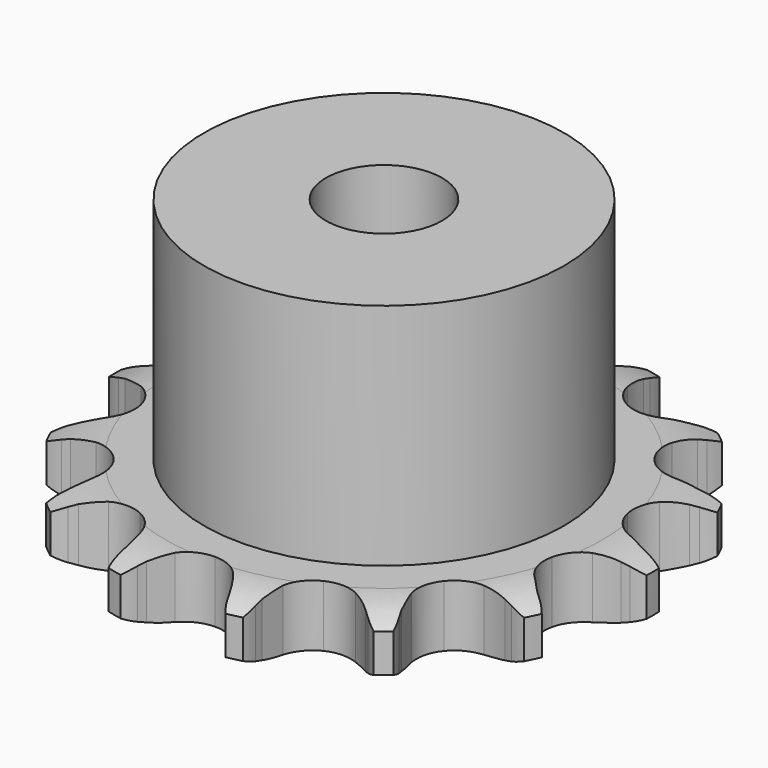
from build123d import *

# Parameters (mm, degrees)
PAD_DEPTH         = 5.3
SKETCH001_R       = 15.5
PAD001_DEPTH      = 25
SKETCH002_R       = 5
POCKET_DEPTH      = 0.001
POCKET_DEPTH_BACK = -25.001


with BuildPart() as part:
    # Sprocket → Pad (new body)
    with BuildSketch(Plane.XY):
        with BuildLine():
            ThreePointArc((-5.383548, 23.586867), (-4.518416, 22.72538), (-3.873288, 21.688836))
            Line((-3.873288, 21.688836), (-3.580974, 21.070043))
            ThreePointArc((-3.580974, 21.070043), (-3.092456, 20.180906), (-2.499221, 19.357933))
            ThreePointArc((-2.499221, 19.357933), (-1.382839, 18.484598), (0, 18.173506))
            ThreePointArc((0, 18.173506), (1.382839, 18.484598), (2.499221, 19.357933))
            ThreePointArc((2.499221, 19.357933), (3.092456, 20.180906), (3.580974, 21.070043))
            Line((3.580974, 21.070043), (3.873288, 21.688836))
            ThreePointArc((3.873288, 21.688836), (4.518416, 22.72538), (5.383548, 23.586867))
            ThreePointArc((5.383548, 23.586867), (5.789221, 22.435327), (5.920722, 21.221523))
            Line((5.920722, 21.221523), (5.915603, 20.537179))
            ThreePointArc((5.915603, 20.537179), (5.969961, 19.524135), (6.147372, 18.525266))
            ThreePointArc((6.147372, 18.525266), (6.774272, 17.254039), (7.885189, 16.373763))
            ThreePointArc((7.885189, 16.373763), (9.266061, 16.054057), (10.650812, 16.356524))
            Line((10.650812, 16.356524), (12.368295, 17.429726))
            ThreePointArc((12.368295, 17.429726), (12.629784, 17.650546), (12.900145, 17.86041))
            ThreePointArc((12.900145, 17.86041), (13.931125, 18.514393), (15.084367, 18.915199))
            ThreePointArc((15.084367, 18.915199), (14.950231, 17.701683), (14.54206, 16.551027))
            Line((14.54206, 16.551027), (14.240522, 15.936675))
            ThreePointArc((14.240522, 15.936675), (13.849953, 15.000369), (13.576403, 14.023443))
            ThreePointArc((13.576403, 14.023443), (13.589655, 12.606105), (14.208619, 11.330995))
            ThreePointArc((14.208619, 11.330995), (15.314027, 10.443812), (16.69288, 10.115504))
            Line((16.69288, 10.115504), (18.705923, 10.337238))
            ThreePointArc((18.705923, 10.337238), (19.037327, 10.422734), (19.371971, 10.49451))
            ThreePointArc((19.371971, 10.49451), (20.584604, 10.636403), (21.797543, 10.497143))
            ThreePointArc((21.797543, 10.497143), (21.150165, 9.462003), (20.283164, 8.602397))
            Line((20.283164, 8.602397), (19.744931, 8.179717))
            ThreePointArc((19.744931, 8.179717), (18.986793, 7.505596), (18.31646, 6.744105))
            ThreePointArc((18.31646, 6.744105), (17.71344, 5.461378), (17.717858, 4.043985))
            ThreePointArc((17.717858, 4.043985), (18.328862, 2.765042), (19.428718, 1.870985))
            Line((19.428718, 1.870985), (21.338614, 1.197334))
            ThreePointArc((21.338614, 1.197334), (21.674294, 1.130573), (22.00694, 1.050044))
            ThreePointArc((22.00694, 1.050044), (23.16105, 0.651743), (24.193447, 0))
            ThreePointArc((24.193447, 0), (23.16105, -0.651743), (22.00694, -1.050044))
            Line((22.00694, -1.050044), (21.338614, -1.197334))
            ThreePointArc((21.338614, -1.197334), (20.363065, -1.475753), (19.428718, -1.870985))
            ThreePointArc((19.428718, -1.870985), (18.328862, -2.765042), (17.717858, -4.043985))
            ThreePointArc((17.717858, -4.043985), (17.71344, -5.461378), (18.31646, -6.744105))
            Line((18.31646, -6.744105), (19.744931, -8.179717))
            ThreePointArc((19.744931, -8.179717), (20.018401, -8.385513), (20.283164, -8.602397))
            ThreePointArc((20.283164, -8.602397), (21.150165, -9.462003), (21.797543, -10.497143))
            ThreePointArc((21.797543, -10.497143), (20.584604, -10.636403), (19.371971, -10.49451))
            Line((19.371971, -10.49451), (18.705923, -10.337238))
            ThreePointArc((18.705923, -10.337238), (17.706183, -10.16481), (16.69288, -10.115504))
            ThreePointArc((16.69288, -10.115504), (15.314027, -10.443812), (14.208619, -11.330995))
            ThreePointArc((14.208619, -11.330995), (13.589655, -12.606105), (13.576403, -14.023443))
            Line((13.576403, -14.023443), (14.240522, -15.936675))
            ThreePointArc((14.240522, -15.936675), (14.397619, -16.240745), (14.54206, -16.551027))
            ThreePointArc((14.54206, -16.551027), (14.950231, -17.701683), (15.084367, -18.915199))
            ThreePointArc((15.084367, -18.915199), (13.931125, -18.514393), (12.900145, -17.86041))
            Line((12.900145, -17.86041), (12.368295, -17.429726))
            ThreePointArc((12.368295, -17.429726), (11.542374, -16.840602), (10.650812, -16.356524))
            ThreePointArc((10.650812, -16.356524), (9.266061, -16.054057), (7.885189, -16.373763))
            ThreePointArc((7.885189, -16.373763), (6.774272, -17.254039), (6.147372, -18.525266))
            Line((6.147372, -18.525266), (5.915603, -20.537179))
            ThreePointArc((5.915603, -20.537179), (5.925211, -20.879298), (5.920722, -21.221523))
            ThreePointArc((5.920722, -21.221523), (5.789221, -22.435327), (5.383548, -23.586867))
            ThreePointArc((5.383548, -23.586867), (4.518416, -22.72538), (3.873288, -21.688836))
            Line((3.873288, -21.688836), (3.580974, -21.070043))
            ThreePointArc((3.580974, -21.070043), (3.092456, -20.180906), (2.499221, -19.357933))
            ThreePointArc((2.499221, -19.357933), (1.382839, -18.484598), (0, -18.173506))
            ThreePointArc((0, -18.173506), (-1.382839, -18.484598), (-2.499221, -19.357933))
            Line((-2.499221, -19.357933), (-3.580974, -21.070043))
            ThreePointArc((-3.580974, -21.070043), (-3.720757, -21.38245), (-3.873288, -21.688836))
            ThreePointArc((-3.873288, -21.688836), (-4.518416, -22.72538), (-5.383548, -23.586867))
            ThreePointArc((-5.383548, -23.586867), (-5.789221, -22.435327), (-5.920722, -21.221523))
            Line((-5.920722, -21.221523), (-5.915603, -20.537179))
            ThreePointArc((-5.915603, -20.537179), (-5.969961, -19.524135), (-6.147372, -18.525266))
            ThreePointArc((-6.147372, -18.525266), (-6.774272, -17.254039), (-7.885189, -16.373763))
            ThreePointArc((-7.885189, -16.373763), (-9.266061, -16.054057), (-10.650812, -16.356524))
            Line((-10.650812, -16.356524), (-12.368295, -17.429726))
            ThreePointArc((-12.368295, -17.429726), (-12.629784, -17.650546), (-12.900145, -17.86041))
            ThreePointArc((-12.900145, -17.86041), (-13.931125, -18.514393), (-15.084367, -18.915199))
            ThreePointArc((-15.084367, -18.915199), (-14.950231, -17.701683), (-14.54206, -16.551027))
            Line((-14.54206, -16.551027), (-14.240522, -15.936675))
            ThreePointArc((-14.240522, -15.936675), (-13.849953, -15.000369), (-13.576403, -14.023443))
            ThreePointArc((-13.576403, -14.023443), (-13.589655, -12.606105), (-14.208619, -11.330995))
            ThreePointArc((-14.208619, -11.330995), (-15.314027, -10.443812), (-16.69288, -10.115504))
            Line((-16.69288, -10.115504), (-18.705923, -10.337238))
            ThreePointArc((-18.705923, -10.337238), (-19.037327, -10.422734), (-19.371971, -10.49451))
            ThreePointArc((-19.371971, -10.49451), (-20.584604, -10.636403), (-21.797543, -10.497143))
            ThreePointArc((-21.797543, -10.497143), (-21.150165, -9.462003), (-20.283164, -8.602397))
            Line((-20.283164, -8.602397), (-19.744931, -8.179717))
            ThreePointArc((-19.744931, -8.179717), (-18.986793, -7.505596), (-18.31646, -6.744105))
            ThreePointArc((-18.31646, -6.744105), (-17.71344, -5.461378), (-17.717858, -4.043985))
            ThreePointArc((-17.717858, -4.043985), (-18.328862, -2.765042), (-19.428718, -1.870985))
            Line((-19.428718, -1.870985), (-21.338614, -1.197334))
            ThreePointArc((-21.338614, -1.197334), (-21.674294, -1.130573), (-22.00694, -1.050044))
            ThreePointArc((-22.00694, -1.050044), (-23.16105, -0.651743), (-24.193447, 0))
            ThreePointArc((-24.193447, 0), (-23.16105, 0.651743), (-22.00694, 1.050044))
            Line((-22.00694, 1.050044), (-21.338614, 1.197334))
            ThreePointArc((-21.338614, 1.197334), (-20.363065, 1.475753), (-19.428718, 1.870985))
            ThreePointArc((-19.428718, 1.870985), (-18.328862, 2.765042), (-17.717858, 4.043985))
            ThreePointArc((-17.717858, 4.043985), (-17.71344, 5.461378), (-18.31646, 6.744105))
            Line((-18.31646, 6.744105), (-19.744931, 8.179717))
            ThreePointArc((-19.744931, 8.179717), (-20.018401, 8.385513), (-20.283164, 8.602397))
            ThreePointArc((-20.283164, 8.602397), (-21.150165, 9.462003), (-21.797543, 10.497143))
            ThreePointArc((-21.797543, 10.497143), (-20.584604, 10.636403), (-19.371971, 10.49451))
            Line((-19.371971, 10.49451), (-18.705923, 10.337238))
            ThreePointArc((-18.705923, 10.337238), (-17.706183, 10.16481), (-16.69288, 10.115504))
            ThreePointArc((-16.69288, 10.115504), (-15.314027, 10.443812), (-14.208619, 11.330995))
            ThreePointArc((-14.208619, 11.330995), (-13.589655, 12.606105), (-13.576403, 14.023443))
            Line((-13.576403, 14.023443), (-14.240522, 15.936675))
            ThreePointArc((-14.240522, 15.936675), (-14.397619, 16.240745), (-14.54206, 16.551027))
            ThreePointArc((-14.54206, 16.551027), (-14.950231, 17.701683), (-15.084367, 18.915199))
            ThreePointArc((-15.084367, 18.915199), (-13.931125, 18.514393), (-12.900145, 17.86041))
            Line((-12.900145, 17.86041), (-12.368295, 17.429726))
            ThreePointArc((-12.368295, 17.429726), (-11.542374, 16.840602), (-10.650812, 16.356524))
            ThreePointArc((-10.650812, 16.356524), (-9.266061, 16.054057), (-7.885189, 16.373763))
            ThreePointArc((-7.885189, 16.373763), (-6.774272, 17.254039), (-6.147372, 18.525266))
            Line((-6.147372, 18.525266), (-5.915603, 20.537179))
            ThreePointArc((-5.915603, 20.537179), (-5.925211, 20.879298), (-5.920722, 21.221523))
            ThreePointArc((-5.920722, 21.221523), (-5.789221, 22.435327), (-5.383548, 23.586867))
        make_face()
    extrude(amount=PAD_DEPTH)

    # Sketch → Groove (revolve, cut)
    with BuildSketch(Plane.XZ):
        with BuildLine():
            Line((18.791101, 0), (23.15, 0))
            Line((27.508899, 0), (23.15, 0))
            Line((27.508899, 5.3), (27.508899, 0))
            Line((23.15, 5.3), (27.508899, 5.3))
            Line((18.791101, 5.3), (23.15, 5.3))
            ThreePointArc((23.15, 4.3), (21.027169, 5.046794), (18.791101, 5.3))
            Line((23.15, 1), (23.15, 4.3))
            ThreePointArc((18.791101, 0), (21.027169, 0.253206), (23.15, 1))
        make_face()
    revolve(axis=Axis((0, 0, 0), (0, 0, 1)), mode=Mode.SUBTRACT)

    # Sketch001 → Pad001 (join)
    with BuildSketch(Plane.XY):
        Circle(SKETCH001_R)
    extrude(amount=PAD001_DEPTH)

    # Sketch002 → Pocket (cut, two sides)
    with BuildSketch(Plane.XY) as pocket_sk:
        Circle(SKETCH002_R)
    extrude(amount=-POCKET_DEPTH, mode=Mode.SUBTRACT)
    extrude(pocket_sk.sketch, amount=-POCKET_DEPTH_BACK, mode=Mode.SUBTRACT)


solid = part.part
